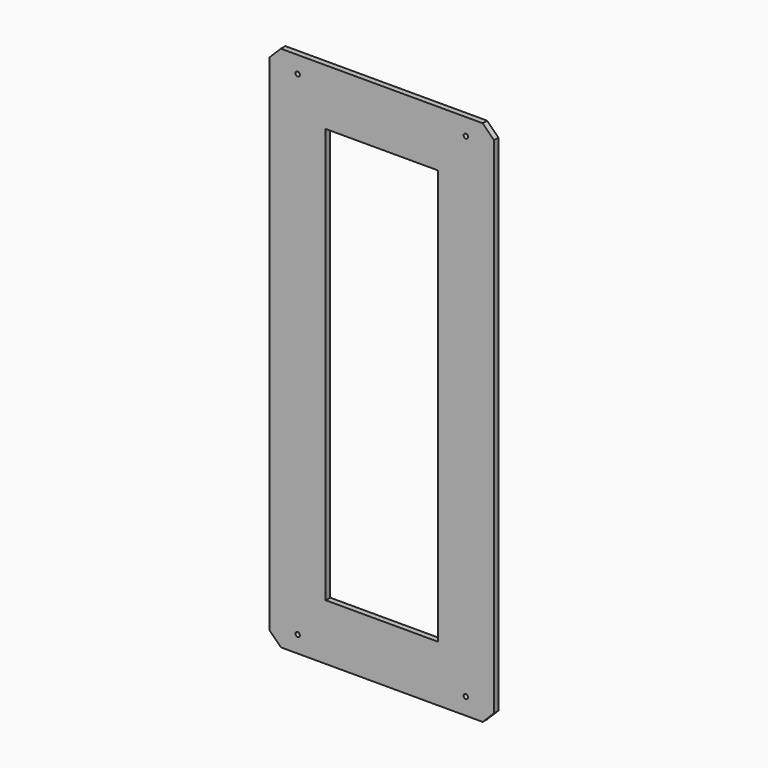
from build123d import *

# Parameters (mm, degrees)
F0_W     = 200
F0_H     = 470
F0_W_2   = 100
F0_H_2   = 370
F1_DEPTH = 5
F2_SIZE  = 10
F4_D     = 4
F4_DEPTH = 8


with BuildPart() as f1:
    # F0 (on Front) → F1 (new body)
    with BuildSketch(Plane.XZ):
        Rectangle(F0_W, F0_H)
        Rectangle(F0_W_2, F0_H_2, mode=Mode.SUBTRACT)
    extrude(amount=F1_DEPTH)

    # F2
    f2_edges = [f1.edges().sort_by_distance(p)[0] for p in [
        (-100, -2.5, 235),
        (100, -2.5, 235),
        (100, -2.5, -235),
        (-100, -2.5, -235),
    ]]
    chamfer(f2_edges, length=F2_SIZE)

    # F4
    with Locations(Plane.XZ.offset(5)):
        with Locations((-75, 220), (75, 220), (-75, -220), (75, -220)):
            Hole(F4_D / 2, depth=F4_DEPTH)


solid = f1.part
